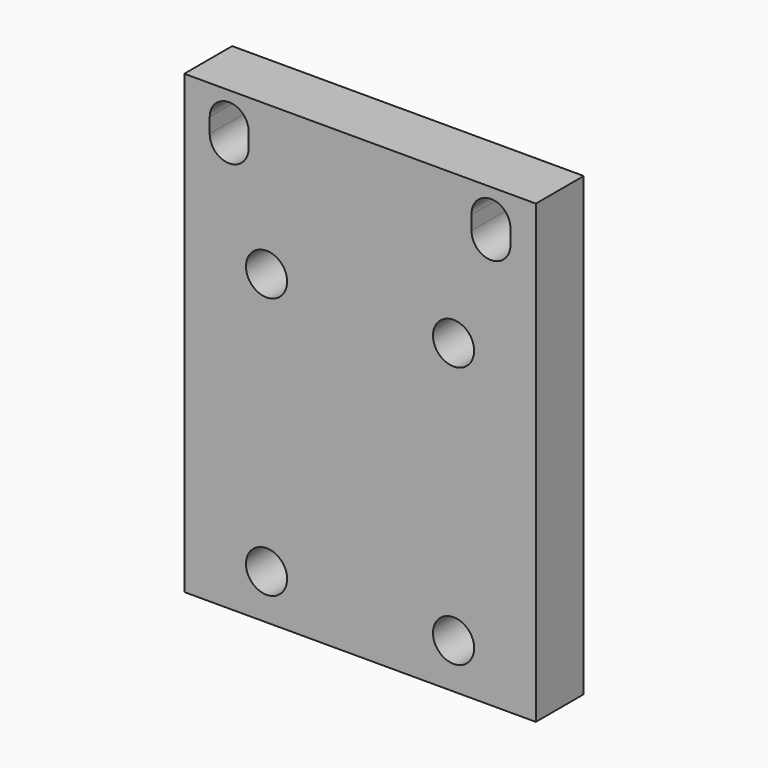
from build123d import *

# Parameters (mm, degrees)
F0_W     = 47
F0_H     = 61
F0_R     = 2.75
F1_DEPTH = 8


with BuildPart() as f1:
    # F0 (on Front) → F1 (new body)
    with BuildSketch(Plane.XZ):
        Rectangle(F0_W, F0_H)
        with Locations((-12.5, -24.5)):
            Circle(F0_R, mode=Mode.SUBTRACT)
        with Locations((12.5, -24.5)):
            Circle(F0_R, mode=Mode.SUBTRACT)
        with Locations((-12.5, 10.5)):
            Circle(F0_R, mode=Mode.SUBTRACT)
        with BuildLine():
            ThreePointArc((-14.900004, 24.504627), (-17.504354, 21.900004), (-20.099966, 24.513334))
            Line((-20.099966, 24.513334), (-20.1, 26.499955))
            ThreePointArc((-20.1, 26.499955), (-17.434316, 29.09917), (-14.903321, 26.368629))
            Line((-14.903321, 26.368629), (-14.900004, 24.504627))
        make_face(mode=Mode.SUBTRACT)
        with Locations((12.5, 10.5)):
            Circle(F0_R, mode=Mode.SUBTRACT)
        with BuildLine():
            Line((20.1, 26.499955), (20.099966, 24.513334))
            ThreePointArc((20.099966, 24.513334), (17.504354, 21.900004), (14.900004, 24.504627))
            Line((14.900004, 24.504627), (14.903321, 26.368629))
            ThreePointArc((14.903321, 26.368629), (17.434316, 29.09917), (20.1, 26.499955))
        make_face(mode=Mode.SUBTRACT)
    extrude(amount=F1_DEPTH)


solid = f1.part
